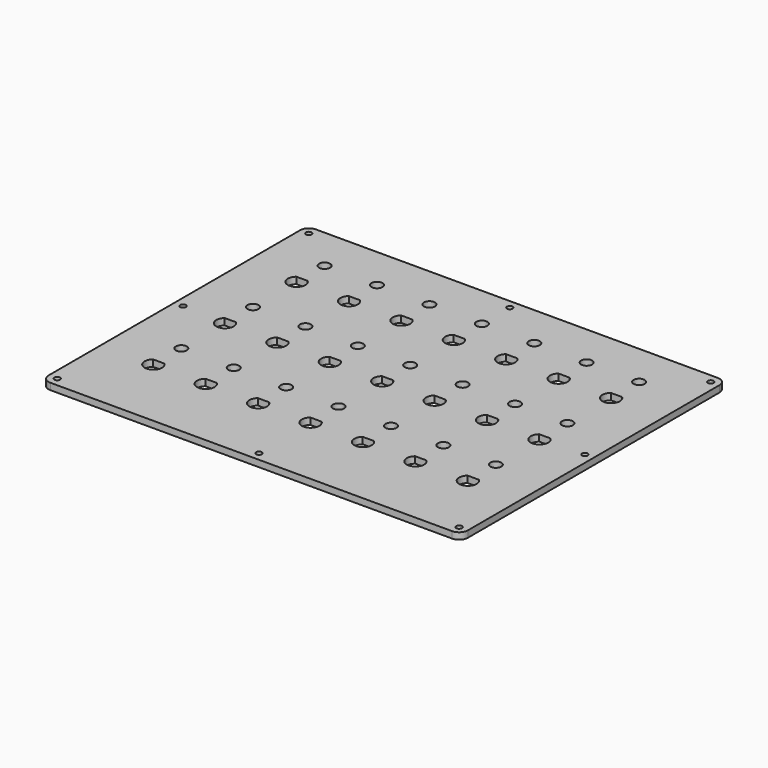
from build123d import *

# Parameters (mm, degrees)
F1_DEPTH = 4.7625
F2_D     = 8
F3_D     = 4.1656


with BuildPart() as f1:
    # F0 (on Top) → F1 (new body)
    with BuildSketch(Plane.XY):
        with BuildLine():
            Line((142.5619142985, 146.0753495158), (-149.5380857015, 146.0753495158))
            ThreePointArc((-149.5380857015, 146.0753495158), (-154.028213762, 144.2154775763), (-155.8880857015, 139.7253495158))
            Line((-155.8880857015, 139.7253495158), (-155.8880857015, -88.8746504842))
            ThreePointArc((-155.8880857015, -88.8746504842), (-154.028213762, -93.3647785448), (-149.5380857015, -95.2246504842))
            Line((-149.5380857015, -95.2246504842), (142.5619142985, -95.2246504842))
            ThreePointArc((142.5619142985, -95.2246504842), (147.0520423591, -93.3647785448), (148.9119142985, -88.8746504842))
            Line((148.9119142985, -88.8746504842), (148.9119142985, 139.7253495158))
            ThreePointArc((148.9119142985, 139.7253495158), (147.0520423591, 144.2154775763), (142.5619142985, 146.0753495158))
        make_face()
        with BuildLine():
            ThreePointArc((-113.6909625595, -36.3982504842), (-112.0287788008, -38.5751628652), (-111.4380857015, -41.2496504842))
            ThreePointArc((-111.4380857015, -41.2496504842), (-120.4625733205, -47.0089573848), (-121.8852088434, -36.3982504842))
            ThreePointArc((-121.8852088434, -36.3982504842), (-117.7880857015, -34.8996504842), (-113.6909625595, -36.3982504842))
        make_face(mode=Mode.SUBTRACT)
        with BuildLine():
            ThreePointArc((-75.5909625595, -36.3982504842), (-73.9287788008, -38.5751628652), (-73.3380857015, -41.2496504842))
            ThreePointArc((-73.3380857015, -41.2496504842), (-82.3625733205, -47.0089573848), (-83.7852088434, -36.3982504842))
            ThreePointArc((-83.7852088434, -36.3982504842), (-79.6880857015, -34.8996504842), (-75.5909625595, -36.3982504842))
        make_face(mode=Mode.SUBTRACT)
        with BuildLine():
            ThreePointArc((-37.4909625595, -36.3982504842), (-35.8287788008, -38.5751628652), (-35.2380857015, -41.2496504842))
            ThreePointArc((-35.2380857015, -41.2496504842), (-44.2625733205, -47.0089573848), (-45.6852088434, -36.3982504842))
            ThreePointArc((-45.6852088434, -36.3982504842), (-41.5880857015, -34.8996504842), (-37.4909625595, -36.3982504842))
        make_face(mode=Mode.SUBTRACT)
        with BuildLine():
            ThreePointArc((0.6090374405, -36.3982504842), (2.2712211992, -38.5751628652), (2.8619142985, -41.2496504842))
            ThreePointArc((2.8619142985, -41.2496504842), (-6.1625733205, -47.0089573848), (-7.5852088434, -36.3982504842))
            ThreePointArc((-7.5852088434, -36.3982504842), (-3.4880857015, -34.8996504842), (0.6090374405, -36.3982504842))
        make_face(mode=Mode.SUBTRACT)
        with BuildLine():
            ThreePointArc((-113.6909625595, 28.6892495158), (-112.0287788008, 26.5123371348), (-111.4380857015, 23.8378495158))
            ThreePointArc((-111.4380857015, 23.8378495158), (-120.4625733205, 18.0785426152), (-121.8852088434, 28.6892495158))
            ThreePointArc((-121.8852088434, 28.6892495158), (-117.7880857015, 30.1878495158), (-113.6909625595, 28.6892495158))
        make_face(mode=Mode.SUBTRACT)
        with BuildLine():
            ThreePointArc((-75.5909625595, 28.6892495158), (-73.9287788008, 26.5123371348), (-73.3380857015, 23.8378495158))
            ThreePointArc((-73.3380857015, 23.8378495158), (-82.3625733205, 18.0785426152), (-83.7852088434, 28.6892495158))
            ThreePointArc((-83.7852088434, 28.6892495158), (-79.6880857015, 30.1878495158), (-75.5909625595, 28.6892495158))
        make_face(mode=Mode.SUBTRACT)
        with BuildLine():
            ThreePointArc((-37.4909625595, 28.6892495158), (-35.8287788008, 26.5123371348), (-35.2380857015, 23.8378495158))
            ThreePointArc((-35.2380857015, 23.8378495158), (-44.2625733205, 18.0785426152), (-45.6852088434, 28.6892495158))
            ThreePointArc((-45.6852088434, 28.6892495158), (-41.5880857015, 30.1878495158), (-37.4909625595, 28.6892495158))
        make_face(mode=Mode.SUBTRACT)
        with BuildLine():
            ThreePointArc((0.6090374405, 28.6892495158), (2.2712211992, 26.5123371348), (2.8619142985, 23.8378495158))
            ThreePointArc((2.8619142985, 23.8378495158), (-6.1625733205, 18.0785426152), (-7.5852088434, 28.6892495158))
            ThreePointArc((-7.5852088434, 28.6892495158), (-3.4880857015, 30.1878495158), (0.6090374405, 28.6892495158))
        make_face(mode=Mode.SUBTRACT)
        with BuildLine():
            ThreePointArc((38.7090374405, -36.3982504842), (40.3712211992, -38.5751628652), (40.9619142985, -41.2496504842))
            ThreePointArc((40.9619142985, -41.2496504842), (31.9374266795, -47.0089573848), (30.5147911566, -36.3982504842))
            ThreePointArc((30.5147911566, -36.3982504842), (34.6119142985, -34.8996504842), (38.7090374405, -36.3982504842))
        make_face(mode=Mode.SUBTRACT)
        with BuildLine():
            ThreePointArc((76.8090374405, -36.3982504842), (78.4712211992, -38.5751628652), (79.0619142985, -41.2496504842))
            ThreePointArc((79.0619142985, -41.2496504842), (70.0374266795, -47.0089573848), (68.6147911566, -36.3982504842))
            ThreePointArc((68.6147911566, -36.3982504842), (72.7119142985, -34.8996504842), (76.8090374405, -36.3982504842))
        make_face(mode=Mode.SUBTRACT)
        with BuildLine():
            ThreePointArc((114.9090374405, -36.3982504842), (116.5712211992, -38.5751628652), (117.1619142985, -41.2496504842))
            ThreePointArc((117.1619142985, -41.2496504842), (108.1374266795, -47.0089573848), (106.7147911566, -36.3982504842))
            ThreePointArc((106.7147911566, -36.3982504842), (110.8119142985, -34.8996504842), (114.9090374405, -36.3982504842))
        make_face(mode=Mode.SUBTRACT)
        with BuildLine():
            ThreePointArc((38.7090374405, 28.6892495158), (40.3712211992, 26.5123371348), (40.9619142985, 23.8378495158))
            ThreePointArc((40.9619142985, 23.8378495158), (31.9374266795, 18.0785426152), (30.5147911566, 28.6892495158))
            ThreePointArc((30.5147911566, 28.6892495158), (34.6119142985, 30.1878495158), (38.7090374405, 28.6892495158))
        make_face(mode=Mode.SUBTRACT)
        with BuildLine():
            ThreePointArc((76.8090374405, 28.6892495158), (78.4712211992, 26.5123371348), (79.0619142985, 23.8378495158))
            ThreePointArc((79.0619142985, 23.8378495158), (70.0374266795, 18.0785426152), (68.6147911566, 28.6892495158))
            ThreePointArc((68.6147911566, 28.6892495158), (72.7119142985, 30.1878495158), (76.8090374405, 28.6892495158))
        make_face(mode=Mode.SUBTRACT)
        with BuildLine():
            ThreePointArc((114.9090374405, 28.6892495158), (116.5712211992, 26.5123371348), (117.1619142985, 23.8378495158))
            ThreePointArc((117.1619142985, 23.8378495158), (108.1374266795, 18.0785426152), (106.7147911566, 28.6892495158))
            ThreePointArc((106.7147911566, 28.6892495158), (110.8119142985, 30.1878495158), (114.9090374405, 28.6892495158))
        make_face(mode=Mode.SUBTRACT)
        with BuildLine():
            ThreePointArc((-113.6909625595, 93.7767495158), (-112.0287788008, 91.5998371348), (-111.4380857015, 88.9253495158))
            ThreePointArc((-111.4380857015, 88.9253495158), (-120.4625733205, 83.1660426152), (-121.8852088434, 93.7767495158))
            ThreePointArc((-121.8852088434, 93.7767495158), (-117.7880857015, 95.2753495158), (-113.6909625595, 93.7767495158))
        make_face(mode=Mode.SUBTRACT)
        with BuildLine():
            ThreePointArc((-75.5909625595, 93.7767495158), (-73.9287788008, 91.5998371348), (-73.3380857015, 88.9253495158))
            ThreePointArc((-73.3380857015, 88.9253495158), (-82.3625733205, 83.1660426152), (-83.7852088434, 93.7767495158))
            ThreePointArc((-83.7852088434, 93.7767495158), (-79.6880857015, 95.2753495158), (-75.5909625595, 93.7767495158))
        make_face(mode=Mode.SUBTRACT)
        with BuildLine():
            ThreePointArc((-37.4909625595, 93.7767495158), (-35.8287788008, 91.5998371348), (-35.2380857015, 88.9253495158))
            ThreePointArc((-35.2380857015, 88.9253495158), (-44.2625733205, 83.1660426152), (-45.6852088434, 93.7767495158))
            ThreePointArc((-45.6852088434, 93.7767495158), (-41.5880857015, 95.2753495158), (-37.4909625595, 93.7767495158))
        make_face(mode=Mode.SUBTRACT)
        with BuildLine():
            ThreePointArc((0.6090374405, 93.7767495158), (2.2712211992, 91.5998371348), (2.8619142985, 88.9253495158))
            ThreePointArc((2.8619142985, 88.9253495158), (-6.1625733205, 83.1660426152), (-7.5852088434, 93.7767495158))
            ThreePointArc((-7.5852088434, 93.7767495158), (-3.4880857015, 95.2753495158), (0.6090374405, 93.7767495158))
        make_face(mode=Mode.SUBTRACT)
        with BuildLine():
            ThreePointArc((38.7090374405, 93.7767495158), (40.3712211992, 91.5998371348), (40.9619142985, 88.9253495158))
            ThreePointArc((40.9619142985, 88.9253495158), (31.9374266795, 83.1660426152), (30.5147911566, 93.7767495158))
            ThreePointArc((30.5147911566, 93.7767495158), (34.6119142985, 95.2753495158), (38.7090374405, 93.7767495158))
        make_face(mode=Mode.SUBTRACT)
        with BuildLine():
            ThreePointArc((76.8090374405, 93.7767495158), (78.4712211992, 91.5998371348), (79.0619142985, 88.9253495158))
            ThreePointArc((79.0619142985, 88.9253495158), (70.0374266795, 83.1660426152), (68.6147911566, 93.7767495158))
            ThreePointArc((68.6147911566, 93.7767495158), (72.7119142985, 95.2753495158), (76.8090374405, 93.7767495158))
        make_face(mode=Mode.SUBTRACT)
        with BuildLine():
            ThreePointArc((114.9090374405, 93.7767495158), (116.5712211992, 91.5998371348), (117.1619142985, 88.9253495158))
            ThreePointArc((117.1619142985, 88.9253495158), (108.1374266795, 83.1660426152), (106.7147911566, 93.7767495158))
            ThreePointArc((106.7147911566, 93.7767495158), (110.8119142985, 95.2753495158), (114.9090374405, 93.7767495158))
        make_face(mode=Mode.SUBTRACT)
        with BuildLine():
            Line((-45.6852088434, 93.7767495158), (-37.4909625595, 93.7767495158))
            ThreePointArc((-37.4909625595, 93.7767495158), (-41.5880857015, 95.2753495158), (-45.6852088434, 93.7767495158))
        make_face()
        with BuildLine():
            Line((-121.8852088434, 93.7767495158), (-113.6909625595, 93.7767495158))
            ThreePointArc((-113.6909625595, 93.7767495158), (-117.7880857015, 95.2753495158), (-121.8852088434, 93.7767495158))
        make_face()
        with BuildLine():
            Line((-83.7852088434, 93.7767495158), (-75.5909625595, 93.7767495158))
            ThreePointArc((-75.5909625595, 93.7767495158), (-79.6880857015, 95.2753495158), (-83.7852088434, 93.7767495158))
        make_face()
        with BuildLine():
            Line((68.6147911566, 93.7767495158), (76.8090374405, 93.7767495158))
            ThreePointArc((76.8090374405, 93.7767495158), (72.7119142985, 95.2753495158), (68.6147911566, 93.7767495158))
        make_face()
        with BuildLine():
            Line((106.7147911566, 93.7767495158), (114.9090374405, 93.7767495158))
            ThreePointArc((114.9090374405, 93.7767495158), (110.8119142985, 95.2753495158), (106.7147911566, 93.7767495158))
        make_face()
        with BuildLine():
            Line((30.5147911566, 93.7767495158), (38.7090374405, 93.7767495158))
            ThreePointArc((38.7090374405, 93.7767495158), (34.6119142985, 95.2753495158), (30.5147911566, 93.7767495158))
        make_face()
        with BuildLine():
            Line((-7.5852088434, 93.7767495158), (0.6090374405, 93.7767495158))
            ThreePointArc((0.6090374405, 93.7767495158), (-3.4880857015, 95.2753495158), (-7.5852088434, 93.7767495158))
        make_face()
        with BuildLine():
            Line((106.7147911566, 28.6892495158), (114.9090374405, 28.6892495158))
            ThreePointArc((114.9090374405, 28.6892495158), (110.8119142985, 30.1878495158), (106.7147911566, 28.6892495158))
        make_face()
        with BuildLine():
            Line((68.6147911566, 28.6892495158), (76.8090374405, 28.6892495158))
            ThreePointArc((76.8090374405, 28.6892495158), (72.7119142985, 30.1878495158), (68.6147911566, 28.6892495158))
        make_face()
        with BuildLine():
            Line((-121.8852088434, 28.6892495158), (-113.6909625595, 28.6892495158))
            ThreePointArc((-113.6909625595, 28.6892495158), (-117.7880857015, 30.1878495158), (-121.8852088434, 28.6892495158))
        make_face()
        with BuildLine():
            Line((-83.7852088434, 28.6892495158), (-75.5909625595, 28.6892495158))
            ThreePointArc((-75.5909625595, 28.6892495158), (-79.6880857015, 30.1878495158), (-83.7852088434, 28.6892495158))
        make_face()
        with BuildLine():
            Line((30.5147911566, 28.6892495158), (38.7090374405, 28.6892495158))
            ThreePointArc((38.7090374405, 28.6892495158), (34.6119142985, 30.1878495158), (30.5147911566, 28.6892495158))
        make_face()
        with BuildLine():
            Line((-45.6852088434, 28.6892495158), (-37.4909625595, 28.6892495158))
            ThreePointArc((-37.4909625595, 28.6892495158), (-41.5880857015, 30.1878495158), (-45.6852088434, 28.6892495158))
        make_face()
        with BuildLine():
            Line((-7.5852088434, 28.6892495158), (0.6090374405, 28.6892495158))
            ThreePointArc((0.6090374405, 28.6892495158), (-3.4880857015, 30.1878495158), (-7.5852088434, 28.6892495158))
        make_face()
        with BuildLine():
            Line((-83.7852088434, -36.3982504842), (-75.5909625595, -36.3982504842))
            ThreePointArc((-75.5909625595, -36.3982504842), (-79.6880857015, -34.8996504842), (-83.7852088434, -36.3982504842))
        make_face()
        with BuildLine():
            Line((-121.8852088434, -36.3982504842), (-113.6909625595, -36.3982504842))
            ThreePointArc((-113.6909625595, -36.3982504842), (-117.7880857015, -34.8996504842), (-121.8852088434, -36.3982504842))
        make_face()
        with BuildLine():
            Line((106.7147911566, -36.3982504842), (114.9090374405, -36.3982504842))
            ThreePointArc((114.9090374405, -36.3982504842), (110.8119142985, -34.8996504842), (106.7147911566, -36.3982504842))
        make_face()
        with BuildLine():
            Line((-45.6852088434, -36.3982504842), (-37.4909625595, -36.3982504842))
            ThreePointArc((-37.4909625595, -36.3982504842), (-41.5880857015, -34.8996504842), (-45.6852088434, -36.3982504842))
        make_face()
        with BuildLine():
            Line((30.5147911566, -36.3982504842), (38.7090374405, -36.3982504842))
            ThreePointArc((38.7090374405, -36.3982504842), (34.6119142985, -34.8996504842), (30.5147911566, -36.3982504842))
        make_face()
        with BuildLine():
            Line((68.6147911566, -36.3982504842), (76.8090374405, -36.3982504842))
            ThreePointArc((76.8090374405, -36.3982504842), (72.7119142985, -34.8996504842), (68.6147911566, -36.3982504842))
        make_face()
        with BuildLine():
            Line((-7.5852088434, -36.3982504842), (0.6090374405, -36.3982504842))
            ThreePointArc((0.6090374405, -36.3982504842), (-3.4880857015, -34.8996504842), (-7.5852088434, -36.3982504842))
        make_face()
    extrude(amount=F1_DEPTH)

    # F2 (through all)
    with Locations(Plane(origin=(0, 0, 0), x_dir=(1, 0, 0), z_dir=(0, 0, -1))):
        with Locations((34.6119142985, -114.3253495158), (110.8119142985, -114.3253495158), (-41.5880857015, -114.3253495158), (-117.7880857015, -114.3253495158), (-3.4880857015, -114.3253495158), (72.7119142985, -114.3253495158), (-79.6880857015, -114.3253495158), (-41.5880857015, -49.2378495158), (34.6119142985, -49.2378495158), (110.8119142985, -49.2378495158), (-79.6880857015, -49.2378495158), (-3.4880857015, -49.2378495158), (72.7119142985, -49.2378495158), (-117.7880857015, -49.2378495158), (-41.5880857015, 15.8496504842), (72.7119142985, 15.8496504842), (-79.6880857015, 15.8496504842), (-3.4880857015, 15.8496504842), (-117.7880857015, 15.8496504842), (34.6119142985, 15.8496504842), (110.8119142985, 15.8496504842)):
            Hole(F2_D / 2)

    # F3 (through all)
    with Locations(Plane(origin=(0, 0, 0), x_dir=(1, 0, 0), z_dir=(0, 0, -1))):
        with Locations((-149.5380857015, 88.8746504842), (-149.5380857015, -25.4253495158), (-149.5380857015, -139.7253495158), (-2.8530857015, 88.8746504842), (142.5619142985, 88.8746504842), (142.5619142985, -25.4253495158), (142.5619142985, -139.7253495158), (-3.4880857015, -139.7253495158)):
            Hole(F3_D / 2)


solid = f1.part
